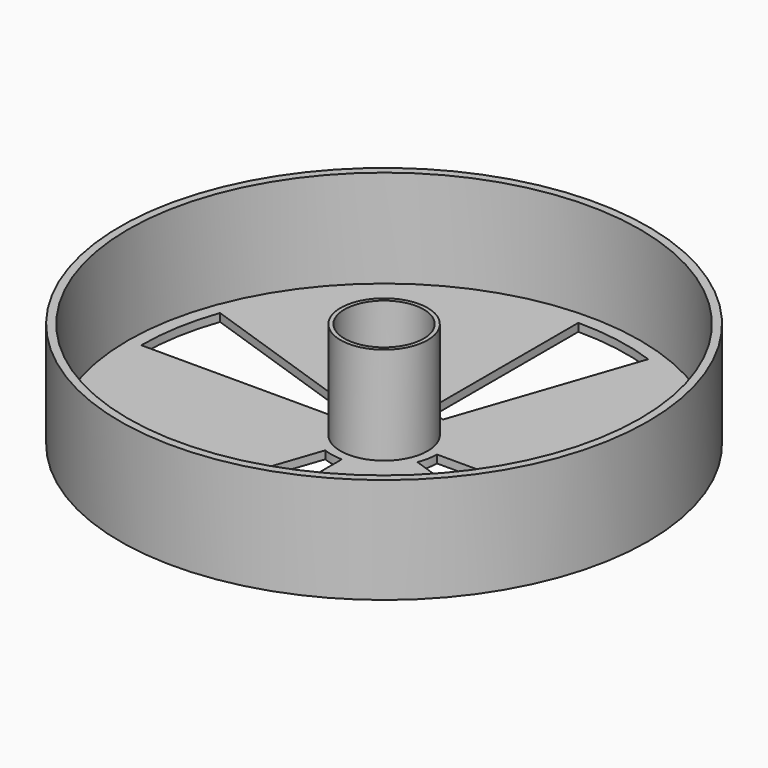
from build123d import *

# Parameters (mm, degrees)
SKETCH_R           = 50
SKETCH_R_2         = 7.5
PAD_DEPTH          = 20
SKETCH001_R        = 48.5
SKETCH001_R_2      = 8.25
POCKET_DEPTH       = 18.5
POCKET001_DEPTH    = 5
POLARPATTERN_COUNT = 4


with BuildPart() as part:
    # Sketch → Pad (new body)
    with BuildSketch(Plane.XY):
        Circle(SKETCH_R)
        Circle(SKETCH_R_2, mode=Mode.SUBTRACT)
    extrude(amount=PAD_DEPTH)

    # Sketch001 (on Face4 of Pad) → Pocket (cut)
    with BuildSketch(Plane.XY.offset(20)):
        Circle(SKETCH001_R)
        Circle(SKETCH001_R_2, mode=Mode.SUBTRACT)
    extrude(amount=-POCKET_DEPTH, mode=Mode.SUBTRACT)

    # Sketch002 (on Face2 of Pocket) → Pocket001 (cut)
    with BuildSketch(Plane(origin=(0, 0, 0), x_dir=(1, 0, 0), z_dir=(0, 0, -1))):
        with BuildLine():
            ThreePointArc((0, 46), (-7.791201, 45.335386), (-15.357265, 43.360747))
            Line((-15.357265, 43.360747), (-3.713796, 9.284811))
            ThreePointArc((0, 10), (-1.891017, 9.819575), (-3.713796, 9.284811))
            Line((0, 46), (0, 10))
        make_face()
    pocket001 = extrude(amount=-POCKET001_DEPTH, mode=Mode.SUBTRACT)

    # PolarPattern: Pocket001 ×4 about axis
    polarpattern_axis = Axis((0, 0, 0), (0, 0, -1))
    for i in range(1, POLARPATTERN_COUNT):
        add(pocket001.rotate(polarpattern_axis, i * 360 / POLARPATTERN_COUNT), mode=Mode.SUBTRACT)


solid = part.part
